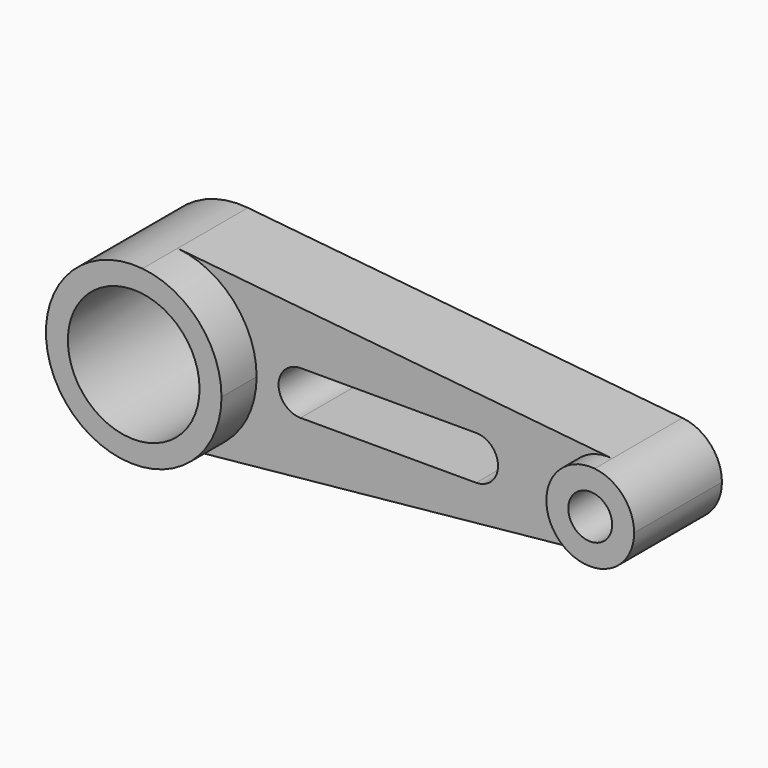
from build123d import *

# Parameters (mm, degrees)
F0_R     = 19.05
F1_DEPTH = 38.1
F2_DEPTH = 25.4
F0_R_2   = 6.35
F3_DEPTH = 31.75


with BuildPart() as f1:
    # F0 (on Front) → F1 (new body)
    with BuildSketch(Plane.XZ):
        with BuildLine():
            ThreePointArc((-18.928655, -25.272681), (-2.631511, -17.038838), (3.931345, 0))
            ThreePointArc((3.931345, 0), (-2.631511, 17.038838), (-18.928655, 25.272681))
            ThreePointArc((-18.928655, 25.272681), (-46.868655, 0), (-18.928655, -25.272681))
        make_face()
        with Locations((-21.468655, 0)):
            Circle(F0_R, mode=Mode.SUBTRACT)
    extrude(amount=F1_DEPTH)

    # F0 (on Front) → F2 (join)
    with BuildSketch(Plane.XZ):
        with BuildLine():
            ThreePointArc((-18.928655, 25.272681), (-2.631511, 17.038838), (3.931345, 0))
            ThreePointArc((3.931345, 0), (-2.631511, -17.038838), (-18.928655, -25.272681))
            Line((-18.928655, -25.272681), (106.801345, -12.63634))
            ThreePointArc((106.801345, -12.63634), (92.831345, 0), (106.801345, 12.63634))
            Line((106.801345, 12.63634), (-18.928655, 25.272681))
        make_face()
        with BuildLine():
            ThreePointArc((67.431345, 6.35), (73.781345, 0), (67.431345, -6.35))
            Line((67.431345, -6.35), (16.631345, -6.35))
            ThreePointArc((16.631345, -6.35), (10.281345, 0), (16.631345, 6.35))
            Line((16.631345, 6.35), (67.431345, 6.35))
        make_face(mode=Mode.SUBTRACT)
    extrude(amount=F2_DEPTH)

    # F0 (on Front) → F3 (join)
    with BuildSketch(Plane.XZ):
        with BuildLine():
            ThreePointArc((118.231345, 0), (114.949917, 8.519419), (106.801345, 12.63634))
            ThreePointArc((106.801345, 12.63634), (92.831345, 0), (106.801345, -12.63634))
            ThreePointArc((106.801345, -12.63634), (114.949917, -8.519419), (118.231345, 0))
        make_face()
        with Locations((105.531345, 0)):
            Circle(F0_R_2, mode=Mode.SUBTRACT)
    extrude(amount=F3_DEPTH)


solid = f1.part
